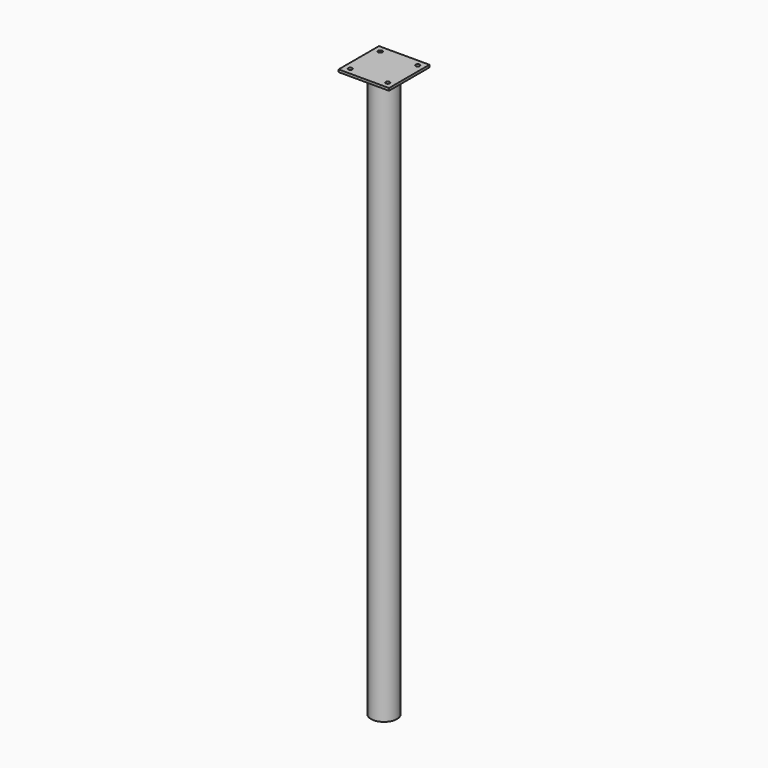
from build123d import *

# Parameters (mm, degrees)
F0_R     = 16
F1_DEPTH = 700
F2_W     = 62
F2_H     = 62
F3_DEPTH = 3
F4_R     = 2.5
F5_DEPTH = 3


with BuildPart() as f1:
    # F0 (on Top) → F1 (new body)
    with BuildSketch(Plane.XY):
        Circle(F0_R)
    extrude(amount=-F1_DEPTH)

    # F2 (on Top) → F3 (join)
    with BuildSketch(Plane.XY):
        Rectangle(F2_W, F2_H)
    extrude(amount=-F3_DEPTH)

    # F4 (on Top) → F5 (cut, through all)
    with BuildSketch(Plane.XY):
        with Locations((-23, 23)):
            Circle(F4_R)
        with Locations((23, 23)):
            Circle(F4_R)
        with Locations((23, -23)):
            Circle(F4_R)
        with Locations((-23, -23)):
            Circle(F4_R)
    extrude(amount=-F5_DEPTH, mode=Mode.SUBTRACT)


solid = f1.part
